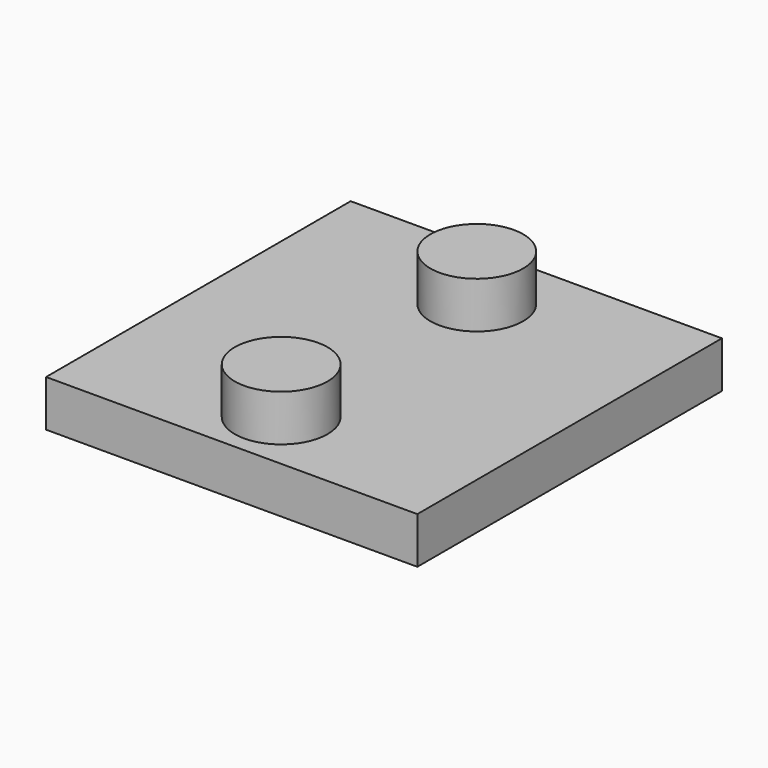
from build123d import *

# Parameters (mm, degrees)
F0_W     = 203.2
F0_H     = 208.396926
F1_DEPTH = 25.4
F2_R     = 25.4
F3_DEPTH = 25.4
F4_R     = 25.4
F5_DEPTH = 25.4


with BuildPart() as f1:
    # F0 (on Top) → F1 (new body)
    with BuildSketch(Plane.XY):
        Rectangle(F0_W, F0_H)
    extrude(amount=F1_DEPTH)

    # F2 (on face) → F3 (join)
    with BuildSketch(Plane.XY.offset(25.4)):
        with Locations((0, 63.5)):
            Circle(F2_R)
    extrude(amount=F3_DEPTH)

    # F4 (on face) → F5 (join, through all)
    with BuildSketch(Plane.XY.offset(25.4)):
        with Locations((0, -70.358)):
            Circle(F4_R)
    extrude(amount=F5_DEPTH)


solid = f1.part
